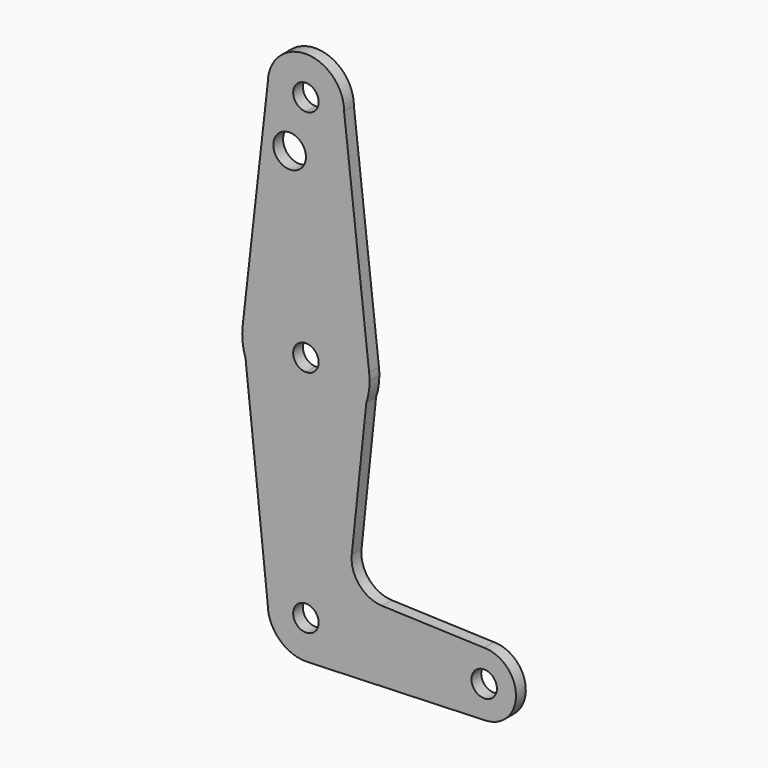
from build123d import *

# Parameters (mm, degrees)
F0_R     = 4.0624039248
F1_DEPTH = 3.048


with BuildPart() as f1:
    # F0 (on Front) → F1 (new body)
    with BuildSketch(Plane.XZ):
        with BuildLine():
            ThreePointArc((3.175, 0), (-2.2450640303, -2.2450640303), (0, 3.175))
            Line((0, 3.175), (0, 9.525))
            ThreePointArc((0, 9.525), (-6.7351920908, 6.7351920908), (-9.525, 0))
            ThreePointArc((-9.525, 0), (-6.7351920908, -6.7351920908), (0, -9.525))
            Line((0, -9.525), (0.6773435479, -9.500885786))
            ThreePointArc((0.6773435479, -9.500885786), (6.9705567315, -6.4912990883), (9.525, 0))
            Line((9.525, 0), (3.175, 0))
        make_face()
        with BuildLine():
            ThreePointArc((-9.525, 0), (-6.7351920908, 6.7351920908), (0, 9.525))
            Line((0, 9.525), (0, 41.275))
            ThreePointArc((0, 41.275), (-9.2696057176, 44.2624077175), (-15.0504439821, 52.1002712012))
            Line((-15.0504439821, 52.1002712012), (-9.525, 0))
        make_face()
        with BuildLine():
            Line((0, 41.275), (0, 9.525))
            ThreePointArc((0, 9.525), (6.7351920908, 6.7351920908), (9.525, 0))
            Line((9.525, 0), (36.5125, 0))
            ThreePointArc((36.5125, 0), (38.8373399243, 5.6126600757), (44.45, 7.9375))
            Line((44.45, 7.9375), (19.0527302542, 8.8480418723))
            ThreePointArc((19.0527302542, 8.8480418723), (13.334909804, 11.5803012009), (11.4309776175, 17.6246170404))
            Line((11.4309776175, 17.6246170404), (15.059322912, 52.1268119255))
            ThreePointArc((15.059322912, 52.1268119255), (9.2809620815, 44.2705835598), (0, 41.275))
        make_face()
        with BuildLine():
            Line((36.5125, 0), (9.525, 0))
            ThreePointArc((9.525, 0), (6.9705567315, -6.4912990883), (0.6773435479, -9.500885786))
            Line((0.6773435479, -9.500885786), (44.7324052746, -7.9324746146))
            ThreePointArc((44.7324052746, -7.9324746146), (38.9380895153, -5.7116327839), (36.5125, 0))
        make_face()
        with BuildLine():
            ThreePointArc((-15.0504439821, 52.1002712012), (-9.2696057176, 44.2624077175), (0, 41.275))
            Line((0, 41.275), (0, 53.975))
            ThreePointArc((0, 53.975), (-3.175, 57.15), (0, 60.325))
            Line((0, 60.325), (0, 73.025))
            ThreePointArc((0, 73.025), (-10.5770706221, 68.9881249383), (-15.7748262685, 58.9305845108))
            Line((-15.7748262685, 58.9305845108), (-15.0504439821, 52.1002712012))
        make_face()
        with BuildLine():
            Line((0, 53.975), (0, 41.275))
            ThreePointArc((0, 41.275), (9.2809620815, 44.2705835598), (15.059322912, 52.1268119255))
            Line((15.059322912, 52.1268119255), (15.7748262685, 58.9305845108))
            ThreePointArc((15.7748262685, 58.9305845108), (10.5770706221, 68.9881249383), (0, 73.025))
            Line((0, 73.025), (0, 60.325))
            ThreePointArc((0, 60.325), (2.2450640303, 59.3950640303), (3.175, 57.15))
            ThreePointArc((3.175, 57.15), (2.2450640303, 54.9049359697), (0, 53.975))
        make_face()
        with BuildLine():
            ThreePointArc((44.45, 7.9375), (38.8373399243, 5.6126600757), (36.5125, 0))
            ThreePointArc((36.5125, 0), (38.9380895153, -5.7116327839), (44.7324052746, -7.9324746146))
            ThreePointArc((44.7324052746, -7.9324746146), (50.1616327839, -5.5119104847), (52.3875, 0))
            ThreePointArc((52.3875, 0), (50.0626600757, 5.6126600757), (44.45, 7.9375))
        make_face()
        with BuildLine():
            ThreePointArc((47.625, 0), (44.45, -3.175), (41.275, 0))
            ThreePointArc((41.275, 0), (44.45, 3.175), (47.625, 0))
        make_face(mode=Mode.SUBTRACT)
        with BuildLine():
            ThreePointArc((0, -9.525), (0.3388863295, -9.5189695375), (0.6773435479, -9.500885786))
            Line((0.6773435479, -9.500885786), (0, -9.525))
        make_face()
        with BuildLine():
            ThreePointArc((-15.7748262685, 58.9305845108), (-15.7864694116, 55.4757812215), (-15.0504439821, 52.1002712012))
            Line((-15.0504439821, 52.1002712012), (-15.7748262685, 58.9305845108))
        make_face()
        with BuildLine():
            Line((15.7748262685, 58.9305845108), (15.059322912, 52.1268119255))
            ThreePointArc((15.059322912, 52.1268119255), (15.6697539264, 54.6055085212), (15.875, 57.15))
            ThreePointArc((15.875, 57.15), (15.8499367824, 58.0417000584), (15.7748262685, 58.9305845108))
        make_face()
        with BuildLine():
            Line((-9.525, 114.3), (-15.7748262685, 58.9305845108))
            ThreePointArc((-15.7748262685, 58.9305845108), (-10.5770706221, 68.9881249383), (0, 73.025))
            Line((0, 73.025), (0, 101.2012809515))
            Line((0, 101.2012809515), (0, 104.775))
            ThreePointArc((0, 104.775), (-6.7351920908, 107.5648079092), (-9.525, 114.3))
        make_face()
        with Locations((-4.0624039248, 101.2012809515)):
            Circle(F0_R, mode=Mode.SUBTRACT)
        with BuildLine():
            ThreePointArc((0, 73.025), (10.5770706221, 68.9881249383), (15.7748262685, 58.9305845108))
            Line((15.7748262685, 58.9305845108), (9.525, 114.3))
            ThreePointArc((9.525, 114.3), (6.7351920908, 107.5648079092), (0, 104.775))
            Line((0, 104.775), (0, 101.2012809515))
            Line((0, 101.2012809515), (0, 73.025))
        make_face()
        with BuildLine():
            ThreePointArc((9.525, 114.3), (0, 123.825), (-9.525, 114.3))
            ThreePointArc((-9.525, 114.3), (-6.7351920908, 107.5648079092), (0, 104.775))
            ThreePointArc((0, 104.775), (6.7351920908, 107.5648079092), (9.525, 114.3))
        make_face()
        with BuildLine():
            ThreePointArc((3.175, 114.3), (2.2450640303, 112.0549359697), (0, 111.125))
            ThreePointArc((0, 111.125), (-2.2450640303, 116.5450640303), (3.175, 114.3))
        make_face(mode=Mode.SUBTRACT)
        with BuildLine():
            Line((0, 9.525), (0, 3.175))
            ThreePointArc((0, 3.175), (2.2450640303, 2.2450640303), (3.175, 0))
            Line((3.175, 0), (9.525, 0))
            ThreePointArc((9.525, 0), (6.7351920908, 6.7351920908), (0, 9.525))
        make_face()
    extrude(amount=F1_DEPTH)


solid = f1.part
